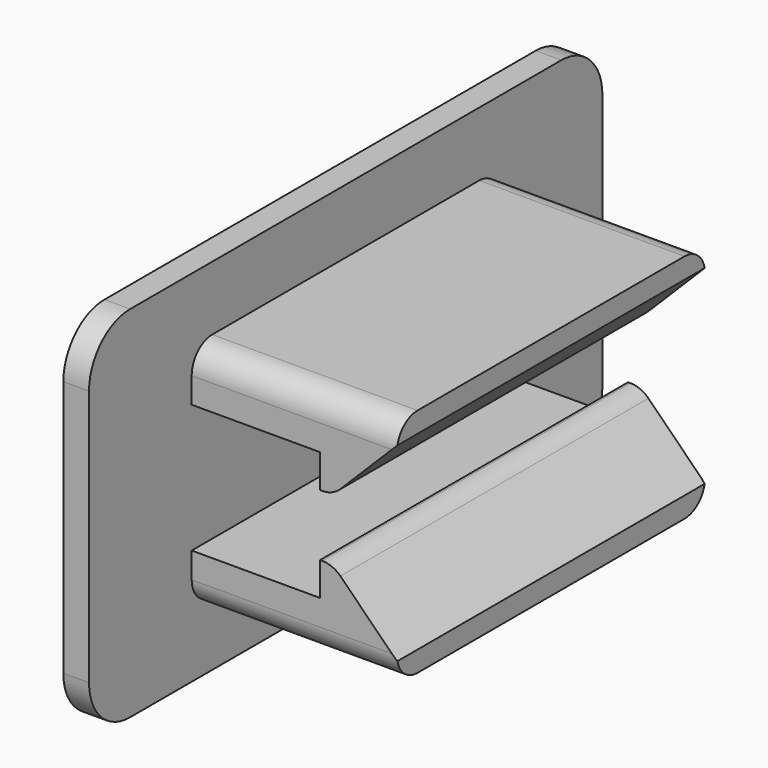
from build123d import *

# Parameters (mm, degrees)
SKETCH007_W  = 25
SKETCH007_H  = 14
PAD003_DEPTH = 1
FILLET002_R  = 2
FILLET003_R  = 2
FILLET004_R  = 2
FILLET005_R  = 2
SKETCH008_W  = 15
SKETCH008_H  = 2
PAD004_DEPTH = 5
SKETCH009_W  = 15
SKETCH009_H  = 3.3
PAD005_DEPTH = 3
CHAMFER_SIZE = 2.5
FILLET006_R  = 1
FILLET007_R  = 1
FILLET008_R  = 1


with BuildPart() as part:
    # Sketch007 → Pad003 (new body)
    with BuildSketch(Plane.YZ):
        with Locations((-12.5, 9)):
            Rectangle(SKETCH007_W, SKETCH007_H)
    extrude(amount=PAD003_DEPTH)

    # Fillet002
    fillet002_edges = [part.edges().sort_by_distance(p)[0] for p in [
        (0.5, -25, 2),
    ]]
    fillet(fillet002_edges, radius=FILLET002_R)

    # Fillet003
    fillet003_edges = [part.edges().sort_by_distance(p)[0] for p in [
        (0.5, -25, 16),
    ]]
    fillet(fillet003_edges, radius=FILLET003_R)

    # Fillet004
    fillet004_edges = [part.edges().sort_by_distance(p)[0] for p in [
        (0.5, 0, 16),
    ]]
    fillet(fillet004_edges, radius=FILLET004_R)

    # Fillet005
    fillet005_edges = [part.edges().sort_by_distance(p)[0] for p in [
        (0.5, 0, 2),
    ]]
    fillet(fillet005_edges, radius=FILLET005_R)

    # Sketch008 (on Face10 of Fillet005) → Pad004 (join)
    with BuildSketch(Plane.YZ.offset(1)):
        with Locations((-12.5, 12.5)):
            Rectangle(SKETCH008_W, SKETCH008_H)
        with Locations((-12.5, 5.5)):
            Rectangle(SKETCH008_W, SKETCH008_H)
    extrude(amount=PAD004_DEPTH)

    # Sketch009 (on Face20 of Pad004) → Pad005 (join)
    with BuildSketch(Plane.YZ.offset(6)):
        with Locations((-12.5, 6.15)):
            Rectangle(SKETCH009_W, SKETCH009_H)
        with Locations((-12.5, 11.85)):
            Rectangle(SKETCH009_W, SKETCH009_H)
    extrude(amount=PAD005_DEPTH)

    # Chamfer
    chamfer_edges = [part.edges().sort_by_distance(p)[0] for p in [
        (9, -12.5, 7.8),
        (9, -12.5, 10.2),
    ]]
    chamfer(chamfer_edges, length=CHAMFER_SIZE)

    # Fillet006
    fillet006_edges = [part.edges().sort_by_distance(p)[0] for p in [
        (6.5, -12.5, 10.2),
    ]]
    fillet(fillet006_edges, radius=FILLET006_R)

    # Fillet007
    fillet007_edges = [part.edges().sort_by_distance(p)[0] for p in [
        (6.5, -12.5, 7.8),
    ]]
    fillet(fillet007_edges, radius=FILLET007_R)

    # Fillet008
    fillet008_edges = [part.edges().sort_by_distance(p)[0] for p in [
        (3.5, -20, 4.5),
        (3.5, -20, 13.5),
        (3.5, -5, 13.5),
        (3.5, -5, 4.5),
    ]]
    fillet(fillet008_edges, radius=FILLET008_R)


with BuildPart() as part_1:
    # Body002 placement: moved
    add(part.part.moved(Location((117, 31, 0))))


solid = part_1.part
